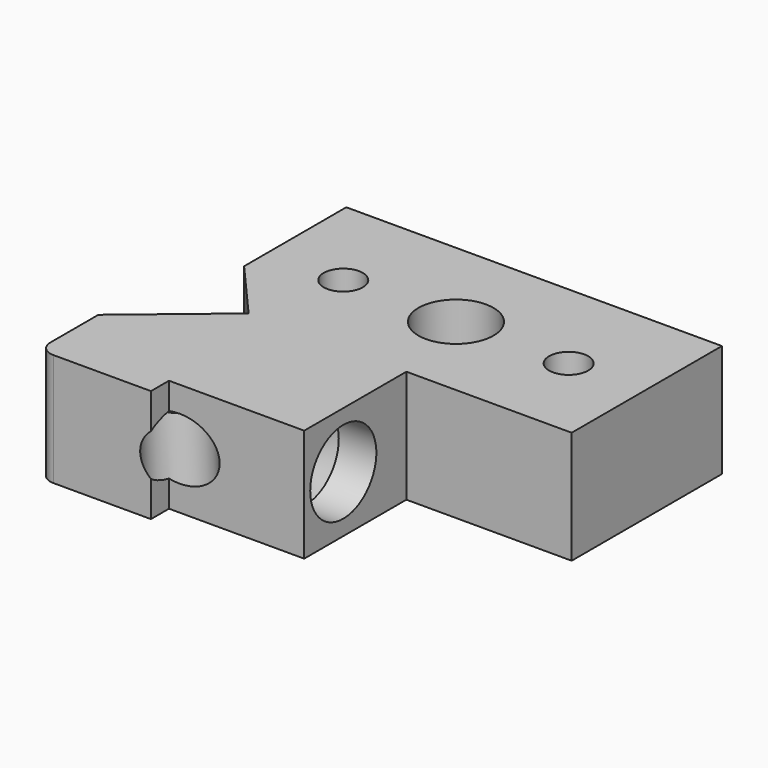
from build123d import *

# Parameters (mm, degrees)
F1_DEPTH = 15
F2_D     = 5.2
F3_D     = 10
F5_D     = 8.2
F7_D     = 11
F7_DEPTH = 5
F7_TIP   = 3.3047334047


with BuildPart() as f1:
    # F0 (on Top) → F1 (new body)
    with BuildSketch(Plane.XY):
        with BuildLine():
            Line((25, 13), (-25, 13))
            Line((-25, 13), (-25, -4))
            Line((-25, -4), (-18, -12))
            Line((-18, -12), (-30, -22))
            Line((-30, -22), (-30, -30))
            ThreePointArc((-30, -30), (-29.4142135624, -31.4142135624), (-28, -32))
            Line((-28, -32), (-15, -32))
            Line((-15, -32), (-15, -29))
            Line((-15, -29), (3, -29))
            Line((3, -29), (3, -12))
            Line((3, -12), (25, -12))
            Line((25, -12), (25, 13))
        make_face()
    extrude(amount=F1_DEPTH)

    # F2 (through all)
    with Locations(Plane(origin=(0, 0, 0), x_dir=(1, 0, 0), z_dir=(0, 0, -1))):
        with Locations((-15, 0), (15, 0)):
            Hole(F2_D / 2)

    # F3 (through all)
    with Locations(Plane(origin=(0, 0, 0), x_dir=(1, 0, 0), z_dir=(0, 0, -1))):
        with Locations((0, 0)):
            Hole(F3_D / 2)

    # F5 (through all)
    with Locations(Plane(origin=(-1.4754098361, 1.7704918033, 0), x_dir=(-0.7682212796, -0.6401843997, 0), z_dir=(-0.6401843997, 0.7682212796, 0))):
        with Locations((29.0101958287, 7.5)):
            Hole(F5_D / 2)

    # F7
    with Locations(Plane.YZ.offset(3)):
        with Locations((-22.5, 7.5376075692)):
            Hole(F7_D / 2, depth=F7_DEPTH)
            with Locations((0, 0, -(F7_DEPTH + F7_TIP / 2))):  # 118° drill point
                Cone(0, F7_D / 2, F7_TIP, mode=Mode.SUBTRACT)


solid = f1.part
